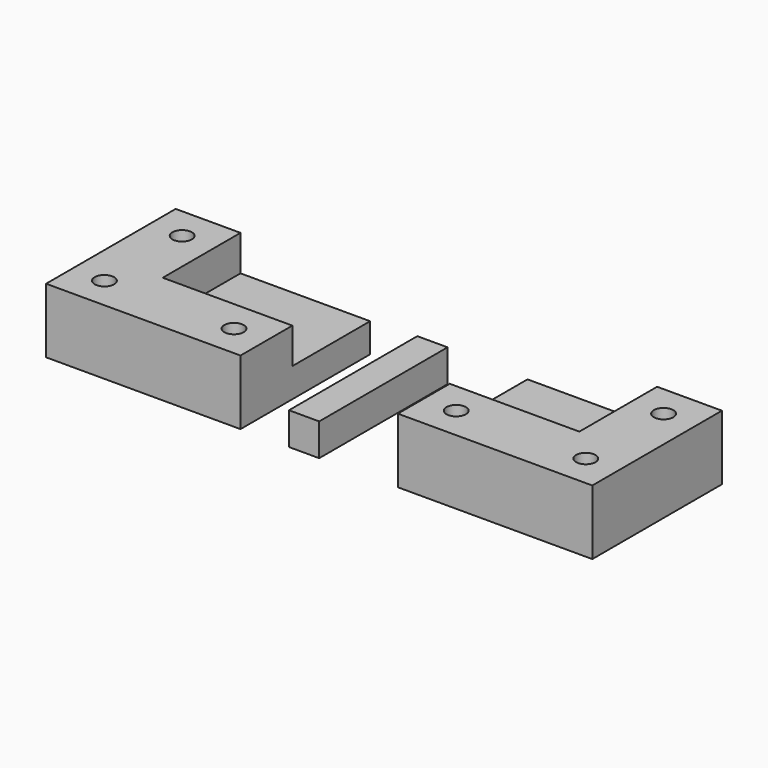
from build123d import *

# Parameters (mm, degrees)
F0_W     = 30
F0_H     = 25
F1_DEPTH = 10
F2_W     = 20
F2_H     = 15
F3_DEPTH = 5.5
F4_R     = 1.5
F5_DEPTH = 25
F6_R     = 3.5
F7_DEPTH = 6
F9_DEPTH = 5


with BuildPart() as f1:
    # F0 (on Top) → F1 (new body)
    with BuildSketch(Plane.XY):
        Rectangle(F0_W, F0_H)
    extrude(amount=F1_DEPTH)

    # F2 (on face) → F3 (cut)
    with BuildSketch(Plane.XY.offset(10)):
        with Locations((5, 5)):
            Rectangle(F2_W, F2_H)
    extrude(amount=-F3_DEPTH, mode=Mode.SUBTRACT)

    # F4 (on face) → F5 (cut)
    with BuildSketch(Plane.XY.offset(10)):
        with Locations((-10, 7.5)):
            Circle(F4_R)
        with Locations((10, -7.5)):
            Circle(F4_R)
        with Locations((-10, -7.5)):
            Circle(F4_R)
    extrude(amount=-F5_DEPTH, mode=Mode.SUBTRACT)

    # F6 (on face) → F7 (cut)
    with BuildSketch(Plane(origin=(0, 0, 0), x_dir=(1, 0, 0), z_dir=(0, 0, -1))):
        with Locations((-10, -7.5)):
            Circle(F6_R)
        with Locations((-10, 7.5)):
            Circle(F6_R)
        with Locations((10, 7.5)):
            Circle(F6_R)
    extrude(amount=-F7_DEPTH, mode=Mode.SUBTRACT)


with BuildPart() as f9:
    # F8 (on face) → F9 (new body)
    with BuildSketch(Plane(origin=(0, 0, 0), x_dir=(1, 0, 0), z_dir=(0, 0, -1))):
        Polygon((22.47723, 12.5), (22.47723, 0), (22.47723, -12.258405), (27.142728, -12.258405), (27.142728, 12.5), align=None)
    extrude(amount=-F9_DEPTH)


with BuildPart() as f10_1:
    # F10: instance of F1
    add(f1.part.mirror(Plane(origin=(27.142728, -0.120798, 2.5), x_dir=(0, 1, 0), z_dir=(1, 0, 0))))


solid = Compound([f1.part, f9.part, f10_1.part])
